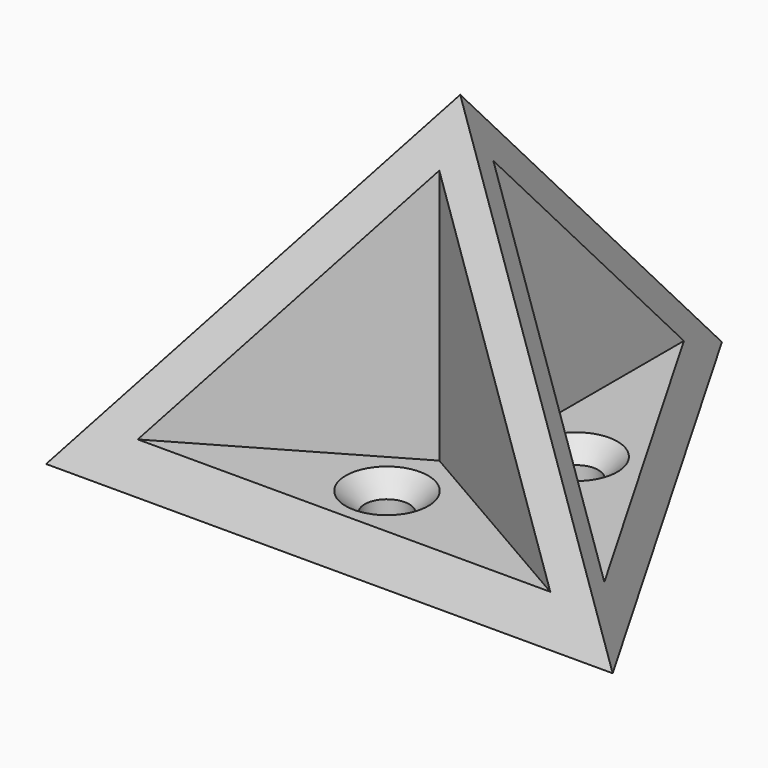
from build123d import *

# Parameters (mm, degrees)
PAD_DEPTH          = 3
PAD001_DEPTH       = 30
POCKET_DEPTH       = 153.867368
POCKET_DEPTH_BACK  = 153.867368
POLARPATTERN_COUNT = 3
HOLE_D             = 3.4
HOLE_DEPTH         = 25
HOLE_CSINK_D       = 6.3
HOLE_CSINK_ANGLE   = 90


with BuildPart() as part:
    # Sketch → Pad (new body)
    with BuildSketch(Plane.XY):
        Polygon((0, 25), (21.650635, -12.5), (-21.650635, -12.5), align=None)
    extrude(amount=PAD_DEPTH)

    # Sketch001 (on Face5 of Pad) → Pad001 (join)
    with BuildSketch(Plane.XY.offset(3)):
        Polygon((-18.186533, -12.5), (0, -2), (18.186533, -12.5), (21.650635, -12.5), (19.918584, -9.5), (1.732051, 1), (1.732051, 22), (0, 25), (-1.732051, 22), (-1.732051, 1), (-19.918584, -9.5), (-21.650635, -12.5), align=None)
    extrude(amount=PAD001_DEPTH)

    # Sketch002 → Pocket (cut, two sides)
    with BuildSketch(Plane.YZ) as pocket_sk:
        Polygon((-12.5, 0), (-12.5, 45.815548), (8.864141, 45.815548), align=None)
    pocket = extrude(amount=-POCKET_DEPTH, mode=Mode.SUBTRACT) + extrude(pocket_sk.sketch, amount=POCKET_DEPTH_BACK, mode=Mode.SUBTRACT)

    # PolarPattern: Pocket ×3 about axis
    polarpattern_axis = Axis((0, 0, 0), (0, 0, 1))
    for i in range(1, POLARPATTERN_COUNT):
        add(pocket.rotate(polarpattern_axis, i * 360 / POLARPATTERN_COUNT), mode=Mode.SUBTRACT)

    # Hole
    with Locations(Plane.XY.offset(3)):
        with Locations((6.062178, 3.5), (0, -7), (-6.062178, 3.5)):
            CounterSinkHole(HOLE_D / 2, HOLE_CSINK_D / 2, depth=HOLE_DEPTH, counter_sink_angle=HOLE_CSINK_ANGLE)


solid = part.part
